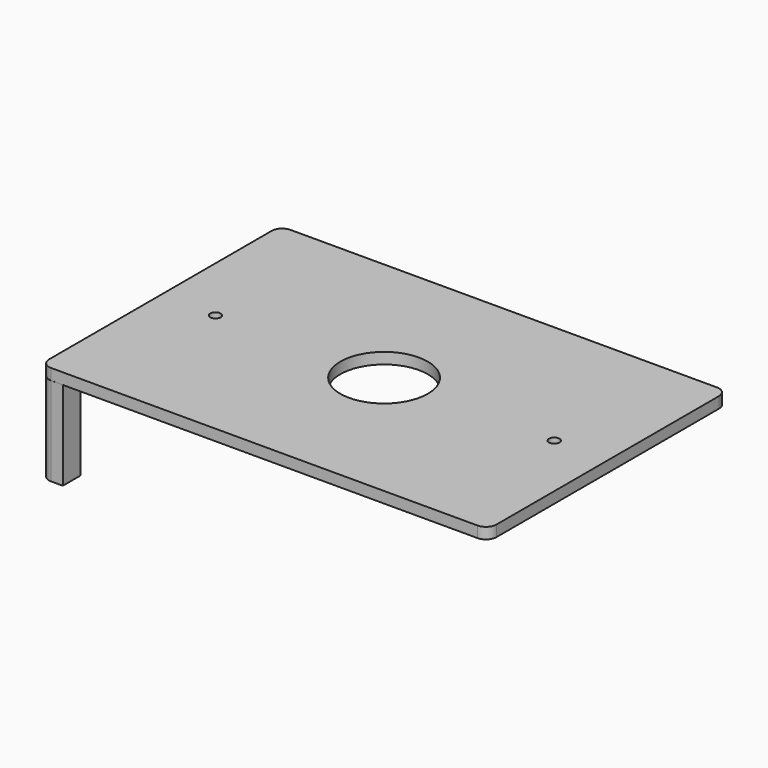
from build123d import *

# Parameters (mm, degrees)
F0_R     = 12.5
F1_DEPTH = 3.175
F3_DEPTH = 25.4
F4_R     = 1.5
F5_DEPTH = 25


with BuildPart() as f1:
    # F0 (on Top) → F1 (new body)
    with BuildSketch(Plane.XY):
        with BuildLine():
            Line((61, 42.8), (-61, 42.8))
            ThreePointArc((-61, 42.8), (-63.12132, 41.92132), (-64, 39.8))
            Line((-64, 39.8), (-64, -39.8))
            ThreePointArc((-64, -39.8), (-63.12132, -41.92132), (-61, -42.8))
            Line((-61, -42.8), (61, -42.8))
            ThreePointArc((61, -42.8), (63.12132, -41.92132), (64, -39.8))
            Line((64, -39.8), (64, 39.8))
            ThreePointArc((64, 39.8), (63.12132, 41.92132), (61, 42.8))
        make_face()
        Circle(F0_R, mode=Mode.SUBTRACT)
    extrude(amount=F1_DEPTH)

    # F2 (on Top) → F3 (join)
    with BuildSketch(Plane.XY):
        with BuildLine():
            Line((-57.674601, -36.461943), (-64.024601, -36.461943))
            Line((-64.024601, -36.461943), (-64.024601, -39.811943))
            ThreePointArc((-64.024601, -39.811943), (-63.145921, -41.933263), (-61.024601, -42.811943))
            Line((-61.024601, -42.811943), (-57.674601, -42.811943))
            Line((-57.674601, -42.811943), (-57.674601, -36.461943))
        make_face()
    extrude(amount=-F3_DEPTH)

    # F4 (on Top) → F5 (cut)
    with BuildSketch(Plane.XY):
        with Locations((-48.248243, 0)):
            Circle(F4_R)
        with Locations((48.708693, 0)):
            Circle(F4_R)
    extrude(amount=F5_DEPTH, mode=Mode.SUBTRACT)


solid = f1.part
